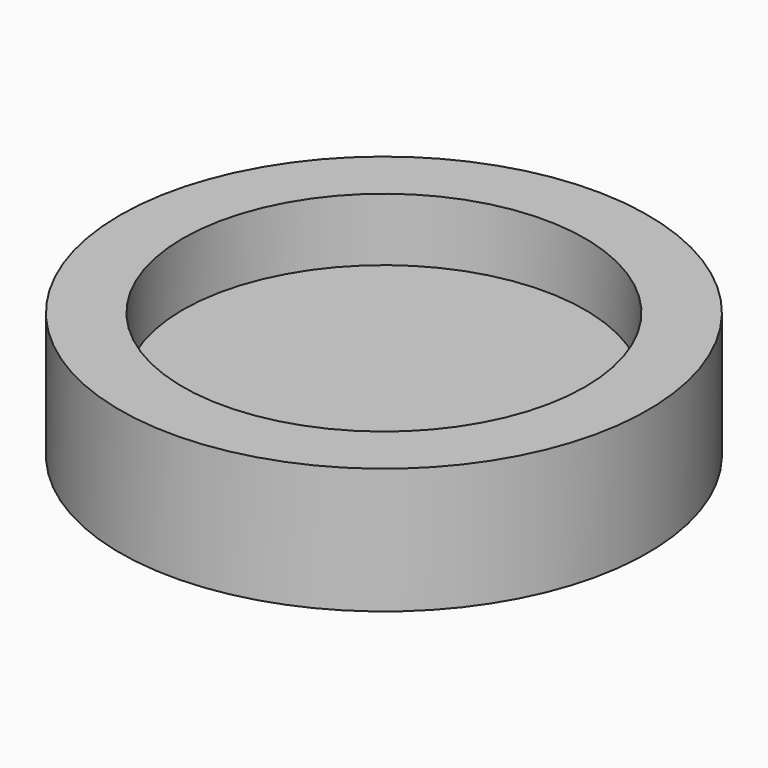
from build123d import *


with BuildPart() as part:
    # Sketch → Revolution (revolve)
    with BuildSketch(Plane.XZ):
        Polygon((0, 0), (-5.25, 0), (-5.25, 2.5), (-4, 2.5), (-4, 1.25), (0, 1.25), align=None)
    revolve(axis=Axis((0, 0, 0), (0, 0, 1)))


solid = part.part
